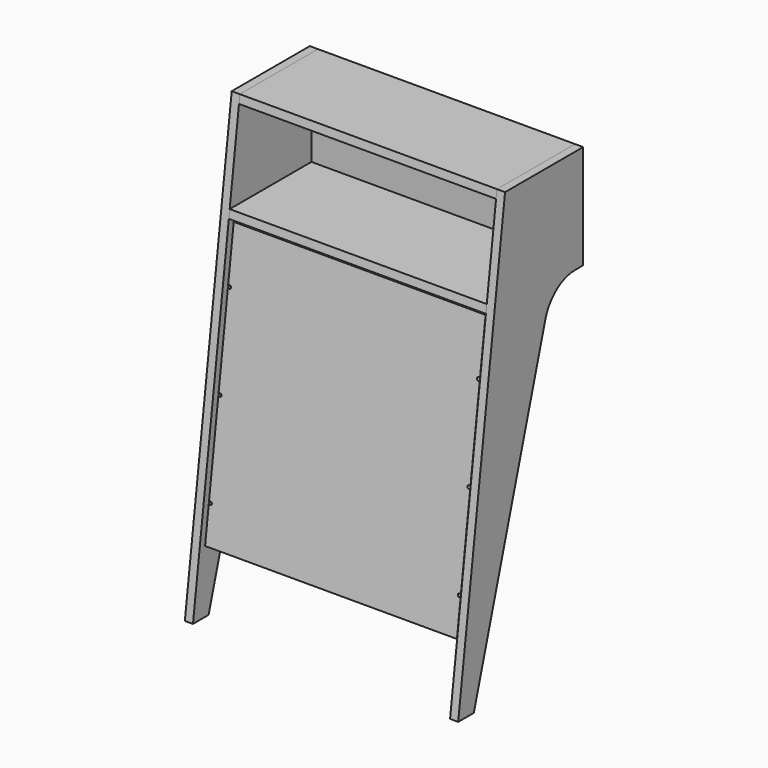
from build123d import *

# Parameters (mm, degrees)
F1_DEPTH  = 15.875
F3_DEPTH  = 501.65
F5_DEPTH  = 501.65
F6_W      = 15.875
F6_H      = 171.45
F7_DEPTH  = 501.65
F9_DEPTH  = 15.875
F11_DEPTH = 15.875
F13_DEPTH = 15.875
F14_R     = 3
F15_DEPTH = 25.4
F17_DEPTH = 19.05


with BuildPart() as f1:
    # F0 (on Right) → F1 (new body)
    with BuildSketch(Plane.YZ):
        with BuildLine():
            Line((114.3, 863.6), (0, 0))
            Line((0, 0), (38.1, 0))
            Line((38.1, 0), (212.7114350854, 605.3196416292))
            ThreePointArc((212.7114350854, 605.3196416292), (240.1161321142, 645.0923504726), (285.9261927333, 660.4))
            Line((285.9261927333, 660.4), (304.8, 660.4))
            Line((304.8, 660.4), (304.8, 863.6))
            Line((304.8, 863.6), (114.3, 863.6))
        make_face()
    extrude(amount=F1_DEPTH)


with BuildPart() as f3:
    # F2 (on face) → F3 (new body)
    with BuildSketch(Plane.YZ.offset(15.875)):
        Polygon((304.8, 863.6), (114.3, 863.6), (112.1988970588, 847.725), (304.8, 847.725), align=None)
    extrude(amount=F3_DEPTH)


with BuildPart() as f5:
    # F4 (on face) → F5 (new body)
    with BuildSketch(Plane.YZ.offset(15.875)):
        Polygon((87.4058823529, 660.4), (304.8, 660.4), (304.8, 676.275), (89.5069852941, 676.275), align=None)
    extrude(amount=F5_DEPTH)


with BuildPart() as f7:
    # F6 (on face) → F7 (new body)
    with BuildSketch(Plane.YZ.offset(15.875)):
        with Locations((296.8625, 762)):
            Rectangle(F6_W, F6_H)
    extrude(amount=F7_DEPTH)


with BuildPart() as f9:
    # F8 (on face) → F9 (new body)
    with BuildSketch(Plane.YZ.offset(517.525)):
        with BuildLine():
            Line((114.3, 863.6), (0, 0))
            Line((0, 0), (38.1, 0))
            Line((38.1, 0), (212.7114350854, 605.3196416292))
            ThreePointArc((212.7114350854, 605.3196416292), (240.1161321142, 645.0923504726), (285.9261927333, 660.4))
            Line((285.9261927333, 660.4), (304.8, 660.4))
            Line((304.8, 660.4), (304.8, 676.275))
            Line((304.8, 676.275), (304.8, 847.725))
            Line((304.8, 847.725), (304.8, 863.6))
            Line((304.8, 863.6), (114.3, 863.6))
        make_face()
    extrude(amount=F9_DEPTH)


with BuildPart() as f11:
    # F10 (on face) → F11 (new body)
    with BuildSketch(Plane.YZ.offset(15.875)):
        Polygon((123.7224961011, 620.2170615854), (107.984739191, 622.3), (41.3307099247, 118.6917788771), (57.0684668348, 116.6088404625), align=None)
    extrude(amount=F11_DEPTH)


with BuildPart() as f13:
    # F12 (on face) → F13 (new body)
    with BuildSketch(Plane(origin=(517.525, 0, 0), x_dir=(0, -1, 0), z_dir=(-1, 0, 0))):
        Polygon((-41.3307099247, 118.6917788771), (-107.984739191, 622.3), (-123.7224961011, 620.2170615854), (-57.0684668348, 116.6088404625), align=None)
    extrude(amount=F13_DEPTH)


with BuildPart() as f15_tool:
    # F14 (on face) → F15 (new body)
    with BuildSketch(Plane(origin=(0, 25.1804110561, -3.3327014633), x_dir=(1, 0, 0), z_dir=(0, -0.991354766, 0.131208719))):
        with Locations((23.8125, 554.8886101794)):
            Circle(F14_R)
        with Locations((23.8125, 377.0886101794)):
            Circle(F14_R)
        with Locations((23.8125, 199.2886101794)):
            Circle(F14_R)
        with Locations((509.5875, 554.8886101794)):
            Circle(F14_R)
        with Locations((509.5875, 377.0886101794)):
            Circle(F14_R)
        with Locations((509.5875, 199.2886101794)):
            Circle(F14_R)
    extrude(amount=-F15_DEPTH)


with BuildPart() as f11_1:
    add(f11.part)

    # F15: cut by f15_tool
    add(f15_tool.part, mode=Mode.SUBTRACT)


with BuildPart() as f13_1:
    add(f13.part)

    # F15: cut by f15_tool
    add(f15_tool.part, mode=Mode.SUBTRACT)


with BuildPart() as f17:
    # F16 (on face) → F17 (new body)
    with BuildSketch(Plane(origin=(0, 25.1804110561, -3.3327014633), x_dir=(1, 0, 0), z_dir=(0, -0.991354766, 0.131208719))):
        with BuildLine():
            Line((20.955, 661.0791013188), (20.955, 631.0886101794))
            Line((20.955, 631.0886101794), (31.75, 631.0886101794))
            Line((31.75, 631.0886101794), (31.75, 128.1686101794))
            Line((31.75, 128.1686101794), (512.445, 128.1686101794))
            Line((512.445, 128.1686101794), (512.445, 198.3749944232))
            ThreePointArc((512.445, 198.3749944232), (506.5875, 199.2886101794), (512.445, 200.2022259356))
            Line((512.445, 200.2022259356), (512.445, 376.1749944232))
            ThreePointArc((512.445, 376.1749944232), (506.5875, 377.0886101794), (512.445, 378.0022259356))
            Line((512.445, 378.0022259356), (512.445, 553.9749944232))
            ThreePointArc((512.445, 553.9749944232), (506.5875, 554.8886101794), (512.445, 555.8022259356))
            Line((512.445, 555.8022259356), (512.445, 661.0791013188))
            Line((512.445, 661.0791013188), (20.955, 661.0791013188))
        make_face()
        with BuildLine():
            Line((31.75, 631.0886101794), (20.955, 631.0886101794))
            Line((20.955, 631.0886101794), (20.955, 555.8022259356))
            ThreePointArc((20.955, 555.8022259356), (24.2748310502, 557.8527711062), (26.8125, 554.8886101794))
            ThreePointArc((26.8125, 554.8886101794), (24.2748310502, 551.9244492526), (20.955, 553.9749944232))
            Line((20.955, 553.9749944232), (20.955, 378.0022259356))
            ThreePointArc((20.955, 378.0022259356), (24.2748310502, 380.0527711062), (26.8125, 377.0886101794))
            ThreePointArc((26.8125, 377.0886101794), (24.2748310502, 374.1244492526), (20.955, 376.1749944232))
            Line((20.955, 376.1749944232), (20.955, 200.2022259356))
            ThreePointArc((20.955, 200.2022259356), (24.2748310502, 202.2527711062), (26.8125, 199.2886101794))
            ThreePointArc((26.8125, 199.2886101794), (24.2748310502, 196.3244492526), (20.955, 198.3749944232))
            Line((20.955, 198.3749944232), (20.955, 128.1686101794))
            Line((20.955, 128.1686101794), (31.75, 128.1686101794))
            Line((31.75, 128.1686101794), (31.75, 631.0886101794))
        make_face()
    extrude(amount=F17_DEPTH)


solid = Compound([f1.part, f3.part, f5.part, f7.part, f9.part, f11_1.part, f13_1.part, f17.part])
